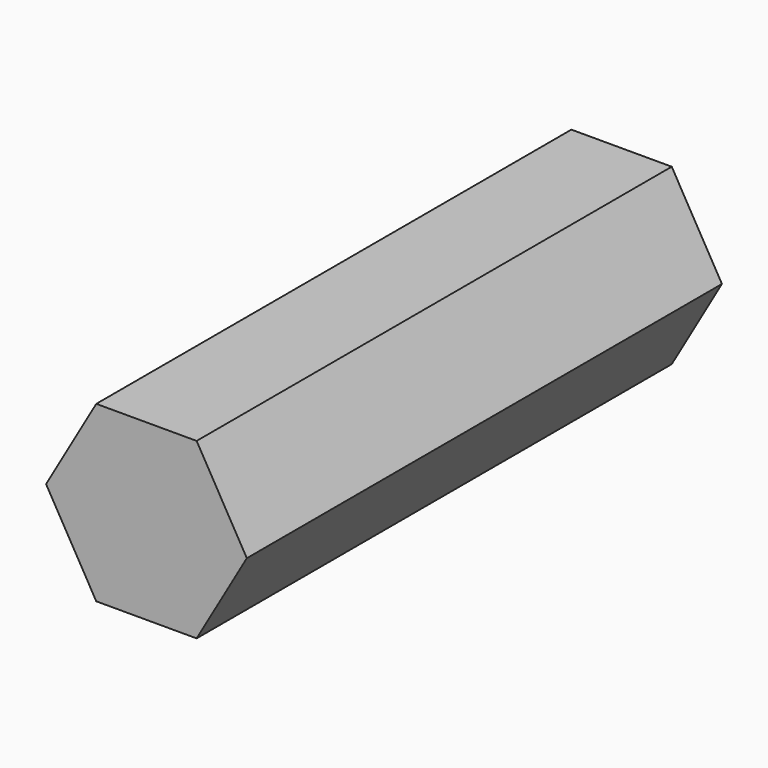
from build123d import *

# Parameters (mm, degrees)
F0_R     = 28.748945
F1_DEPTH = 304.8


with BuildPart() as f1:
    # F0 (on Front) → F1 (new body)
    with BuildSketch(Plane.XZ):
        Polygon((25.758171, 44.61446), (-25.758171, 44.61446), (-51.516341, 0), (-25.758171, -44.61446), (25.758171, -44.61446), (51.516341, 0), align=None)
        Circle(F0_R, mode=Mode.SUBTRACT)
        Circle(F0_R)
    extrude(amount=F1_DEPTH)


solid = f1.part
